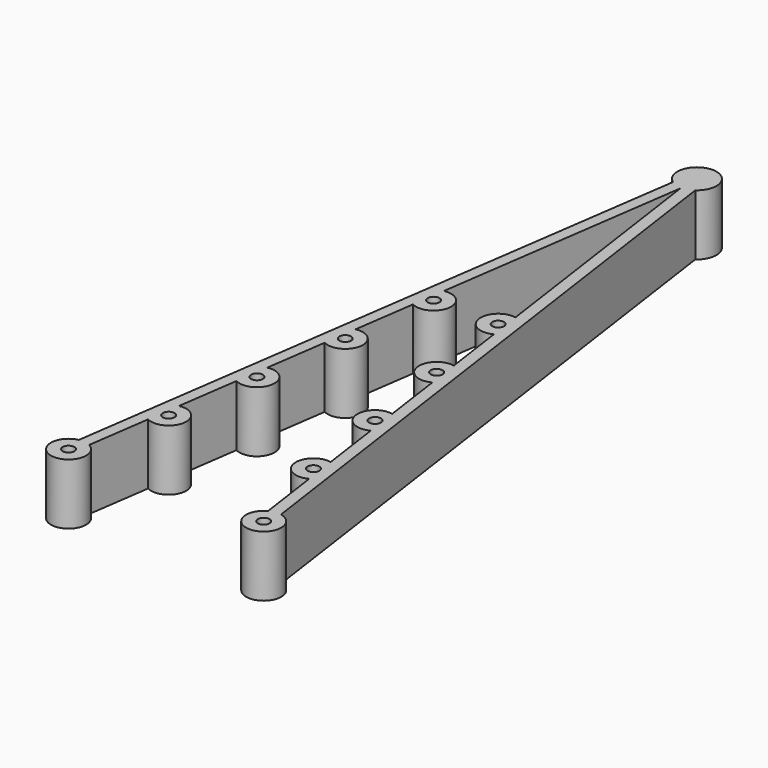
from build123d import *

# Parameters (mm, degrees)
F0_R     = 0.75
F1_DEPTH = 3.9


with BuildPart() as f1:
    # F0 (on Top) → F1 (new body, symmetric)
    with BuildSketch(Plane.XY):
        with BuildLine():
            Line((12.943013, 2.205955), (1.428914, 82.948609))
            ThreePointArc((1.428914, 82.948609), (0, 87.5), (-1.428914, 82.948609))
            Line((-1.428914, 82.948609), (-12.943013, 2.205955))
            ThreePointArc((-12.943013, 2.205955), (-12.817642, -2.227466), (-11.458036, 1.994194))
            Line((-11.458036, 1.994194), (-10.31556, 10.005806))
            ThreePointArc((-10.31556, 10.005806), (-7.04613, 11.682358), (-9.716609, 14.205955))
            Line((-9.716609, 14.205955), (-8.604331, 22.005806))
            ThreePointArc((-8.604331, 22.005806), (-5.334901, 23.682358), (-8.00538, 26.205955))
            Line((-8.00538, 26.205955), (-6.893102, 34.005806))
            ThreePointArc((-6.893102, 34.005806), (-3.623672, 35.682358), (-6.294151, 38.205955))
            Line((-6.294151, 38.205955), (-5.181873, 46.005806))
            ThreePointArc((-5.181873, 46.005806), (-1.912443, 47.682358), (-4.582921, 50.205955))
            Line((-4.582921, 50.205955), (0, 82.343708))
            Line((0, 82.343708), (4.582921, 50.205955))
            ThreePointArc((4.582921, 50.205955), (1.912443, 47.682358), (5.181873, 46.005806))
            Line((5.181873, 46.005806), (6.294151, 38.205955))
            ThreePointArc((6.294151, 38.205955), (3.623672, 35.682358), (6.893102, 34.005806))
            Line((6.893102, 34.005806), (8.00538, 26.205955))
            ThreePointArc((8.00538, 26.205955), (5.334901, 23.682358), (8.604331, 22.005806))
            Line((8.604331, 22.005806), (9.716609, 14.205955))
            ThreePointArc((9.716609, 14.205955), (7.04613, 11.682358), (10.31556, 10.005806))
            Line((10.31556, 10.005806), (11.458036, 1.994194))
            ThreePointArc((11.458036, 1.994194), (12.817642, -2.227466), (12.943013, 2.205955))
        make_face()
        with Locations((-12.5, 0)):
            Circle(F0_R, mode=Mode.SUBTRACT)
        with Locations((-9.273596, 12)):
            Circle(F0_R, mode=Mode.SUBTRACT)
        with Locations((-7.562367, 24)):
            Circle(F0_R, mode=Mode.SUBTRACT)
        with Locations((-5.851138, 36)):
            Circle(F0_R, mode=Mode.SUBTRACT)
        with Locations((12.5, 0)):
            Circle(F0_R, mode=Mode.SUBTRACT)
        with Locations((9.273596, 12)):
            Circle(F0_R, mode=Mode.SUBTRACT)
        with Locations((5.851138, 36)):
            Circle(F0_R, mode=Mode.SUBTRACT)
        with Locations((7.562367, 24)):
            Circle(F0_R, mode=Mode.SUBTRACT)
        with Locations((-4.139909, 48)):
            Circle(F0_R, mode=Mode.SUBTRACT)
        with Locations((4.139909, 48)):
            Circle(F0_R, mode=Mode.SUBTRACT)
    extrude(amount=F1_DEPTH, both=True)


solid = f1.part
